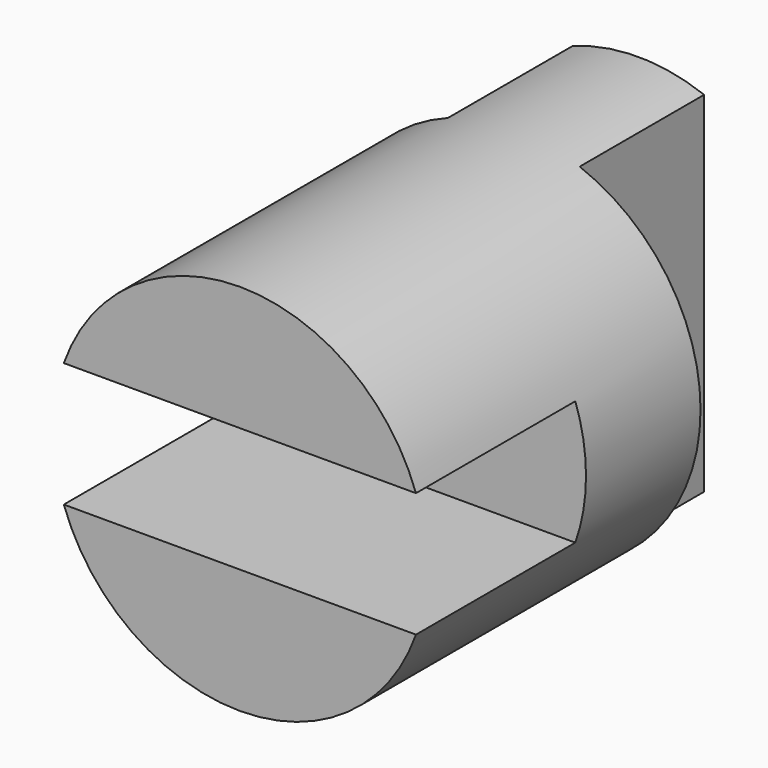
from build123d import *

# Parameters (mm, degrees)
F0_R     = 30
F1_DEPTH = 40
F3_DEPTH = 32
F5_DEPTH = 25


with BuildPart() as f1:
    # F0 (on Front) → F1 (new body, symmetric)
    with BuildSketch(Plane.XZ):
        Circle(F0_R)
    extrude(amount=F1_DEPTH, both=True)

    # F2 (on face) → F3 (cut)
    with BuildSketch(Plane.XZ.offset(40)):
        with BuildLine():
            Line((28.2842712475, 10), (-28.2842712475, 10))
            ThreePointArc((-28.2842712475, 10), (-30, 0), (-28.2842712475, -10))
            Line((-28.2842712475, -10), (28.2842712475, -10))
            ThreePointArc((28.2842712475, -10), (29.5679567896, -5.0730593618), (30, 0))
            ThreePointArc((30, 0), (29.5679567896, 5.0730593618), (28.2842712475, 10))
        make_face()
    extrude(amount=-F3_DEPTH, mode=Mode.SUBTRACT)

    # F4 (on face) → F5 (cut)
    with BuildSketch(Plane(origin=(0, 40, 0), x_dir=(-1, 0, 0), z_dir=(0, 1, 0))):
        with BuildLine():
            Line((10.5825905188, 28.0714940449), (10.5825905188, -28.0714940449))
            ThreePointArc((10.5825905188, -28.0714940449), (24.6726337828, -17.0663746067), (30, 0))
            ThreePointArc((30, 0), (24.6726337828, 17.0663746067), (10.5825905188, 28.0714940449))
        make_face()
        with BuildLine():
            ThreePointArc((-10.5825905188, 28.0714940449), (-30, 0), (-10.5825905188, -28.0714940449))
            Line((-10.5825905188, -28.0714940449), (-10.5825905188, 28.0714940449))
        make_face()
    extrude(amount=-F5_DEPTH, mode=Mode.SUBTRACT)


solid = f1.part
